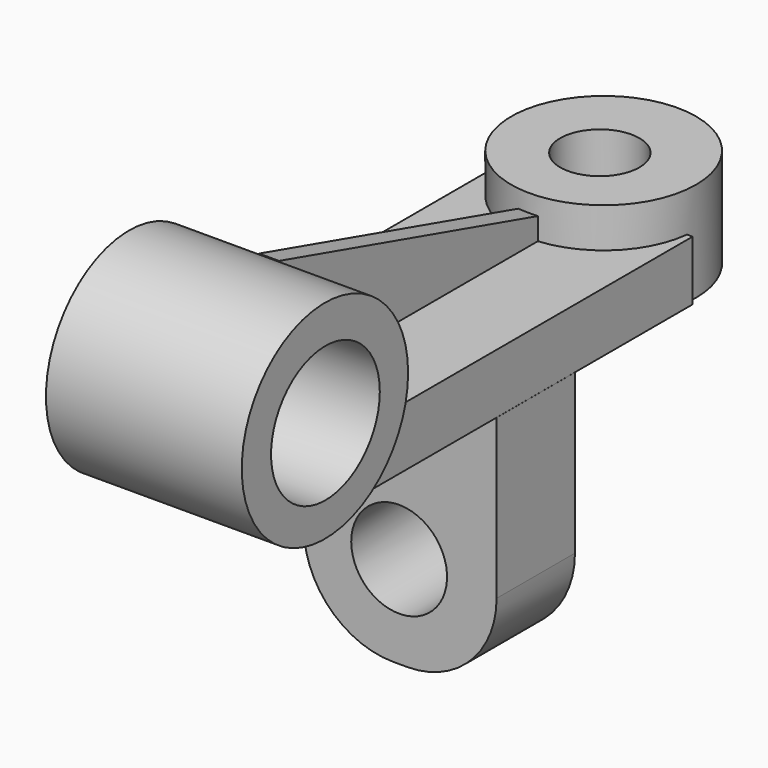
from build123d import *

# Parameters (mm, degrees)
SKETCH_W             = 20.859867
SKETCH_H             = 40.764332
PAD_DEPTH            = 6
PAD001_DEPTH         = 1
SKETCH003_R          = 10.454419
PAD002_DEPTH         = 10
SKETCH004_R          = 6.834621
POCKET_DEPTH         = 21.067877
SKETCH005_W          = 8.397711
SKETCH005_H          = 64.60706
POCKET001_DEPTH      = 19.11099
POCKET001_DEPTH_BACK = -1.799848
SKETCH006_R          = 9.297528
PAD003_DEPTH         = 10
SKETCH007_R          = 3.983177
POCKET002_DEPTH      = 11.799848
SKETCH008_W          = 19.389837
SKETCH008_H          = 9.84828
PAD004_DEPTH         = 25
FILLET_R             = 9
SKETCH009_R          = 4.818609
POCKET003_DEPTH      = 15


with BuildPart() as part:
    # Sketch → Pad (new body)
    with BuildSketch(Plane.XY):
        with Locations((-0.636944, -0.955416)):
            Rectangle(SKETCH_W, SKETCH_H)
    extrude(amount=PAD_DEPTH)

    # Sketch002 (on Face2 of Pad) → Pad001 (join, symmetric)
    with BuildSketch(Plane(origin=(-0.20701, 0, -0.1), x_dir=(0, 1, 0), z_dir=(1, 0, 0))):
        Polygon((-21.297264, 17.580976), (-21.297264, 6.008283), (19.375914, 6.008283), align=None)
    extrude(amount=PAD001_DEPTH, both=True)

    # Sketch003 → Pad002 (join, symmetric)
    with BuildSketch(Plane.YZ):
        with Locations((-27.036768, 8.655571)):
            Circle(SKETCH003_R)
    extrude(amount=PAD002_DEPTH, both=True)

    # Sketch004 (on Face13 of Pad002) → Pocket (cut, through all)
    with BuildSketch(Plane.YZ.offset(10)):
        with Locations((-26.973387, 8.428857)):
            Circle(SKETCH004_R)
    extrude(amount=-POCKET_DEPTH, mode=Mode.SUBTRACT)

    # Sketch005 (on Face4 of Pocket) → Pocket001 (cut, two sides)
    with BuildSketch(Plane(origin=(0, 0, 0), x_dir=(1, 0, 0), z_dir=(0, 0, -1))) as pocket001_sk:
        with Locations((-13.88562, 8.634939)):
            Rectangle(SKETCH005_W, SKETCH005_H)
    extrude(amount=-POCKET001_DEPTH, mode=Mode.SUBTRACT)
    extrude(pocket001_sk.sketch, amount=-POCKET001_DEPTH_BACK, mode=Mode.SUBTRACT)

    # Sketch006 → Pad003 (join)
    with BuildSketch(Plane.XY):
        with Locations((0, 20.493547)):
            Circle(SKETCH006_R)
    extrude(amount=PAD003_DEPTH)

    # Sketch007 (on Face15 of Pad003) → Pocket002 (cut, through all)
    with BuildSketch(Plane.XY.offset(10)):
        with Locations((0, 20.013571)):
            Circle(SKETCH007_R)
    extrude(amount=-POCKET002_DEPTH, mode=Mode.SUBTRACT)

    # Sketch008 (on Face2 of Pocket002) → Pad004 (join)
    with BuildSketch(Plane(origin=(0, 0, 0), x_dir=(1, 0, 0), z_dir=(0, 0, -1))):
        with Locations((0.104674, 0.286196)):
            Rectangle(SKETCH008_W, SKETCH008_H)
    extrude(amount=PAD004_DEPTH)

    # Fillet
    fillet_edges = [part.edges().sort_by_distance(p)[0] for p in [
        (-9.590244, -0.286196, -25),
        (9.799593, -0.286196, -25),
    ]]
    fillet(fillet_edges, radius=FILLET_R)

    # Sketch009 (on Face1 of Fillet) → Pocket003 (cut)
    with BuildSketch(Plane(origin=(0, 4.637944, 0), x_dir=(-1, 0, 0), z_dir=(0, 1, 0))):
        with Locations((0, -15.724321)):
            Circle(SKETCH009_R)
    extrude(amount=-POCKET003_DEPTH, mode=Mode.SUBTRACT)


solid = part.part
